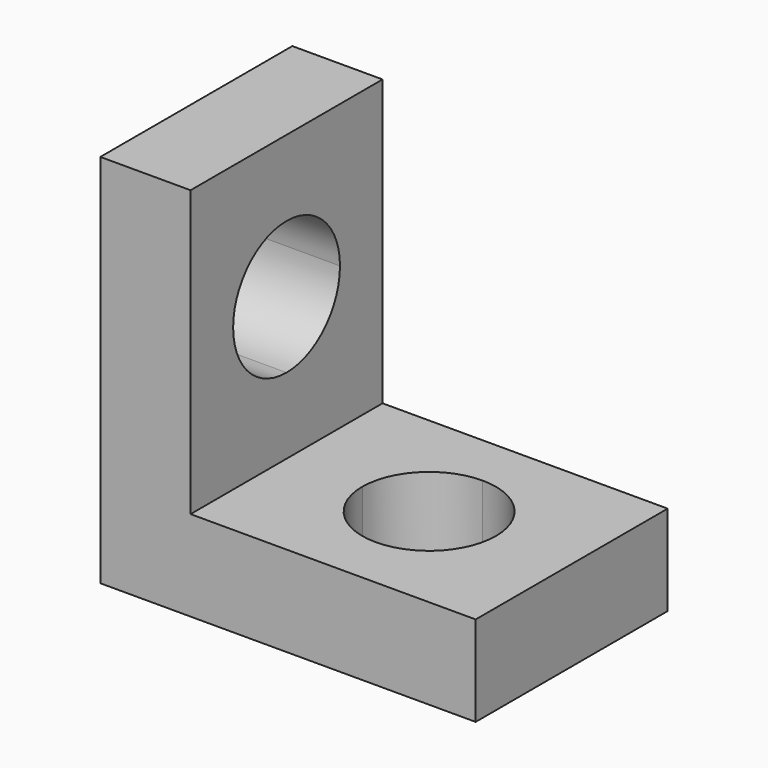
from build123d import *

# Parameters (mm, degrees)
F1_DEPTH = 16.891
F3_DEPTH = 6.35
F5_DEPTH = 6.35


with BuildPart() as f1:
    # F0 (on Front) → F1 (new body)
    with BuildSketch(Plane.XZ):
        Polygon((0, 6.35), (0, 0), (6.35, 0), (26.416, 0), (26.416, 6.35), (6.35, 6.35), (6.35, 26.416), (0, 26.416), align=None)
    extrude(amount=F1_DEPTH)

    # F2 (on face) → F3 (cut, through all)
    with BuildSketch(Plane.YZ.offset(6.35)):
        with BuildLine():
            Line((-8.4455, 16.383), (-3.7465, 16.383))
            ThreePointArc((-3.7465, 16.383), (-5.122805, 19.705695), (-8.4455, 21.082))
            Line((-8.4455, 21.082), (-8.4455, 16.383))
        make_face()
        with BuildLine():
            ThreePointArc((-8.4455, 11.684), (-5.122805, 13.060305), (-3.7465, 16.383))
            Line((-3.7465, 16.383), (-8.4455, 16.383))
            Line((-8.4455, 16.383), (-8.4455, 11.684))
        make_face()
        with BuildLine():
            Line((-8.4455, 16.383), (-8.4455, 21.082))
            ThreePointArc((-8.4455, 21.082), (-11.768195, 19.705695), (-13.1445, 16.383))
            Line((-13.1445, 16.383), (-8.4455, 16.383))
        make_face()
        with BuildLine():
            ThreePointArc((-13.1445, 16.383), (-11.768195, 13.060305), (-8.4455, 11.684))
            Line((-8.4455, 11.684), (-8.4455, 16.383))
            Line((-8.4455, 16.383), (-13.1445, 16.383))
        make_face()
    extrude(amount=-F3_DEPTH, mode=Mode.SUBTRACT)

    # F4 (on face) → F5 (cut, through all)
    with BuildSketch(Plane.XY.offset(6.35)):
        with BuildLine():
            Line((16.383, -8.4455), (21.082, -8.4455))
            ThreePointArc((21.082, -8.4455), (19.705695, -5.122805), (16.383, -3.7465))
            Line((16.383, -3.7465), (16.383, -8.4455))
        make_face()
        with BuildLine():
            ThreePointArc((16.383, -13.1445), (19.705695, -11.768195), (21.082, -8.4455))
            Line((21.082, -8.4455), (16.383, -8.4455))
            Line((16.383, -8.4455), (16.383, -13.1445))
        make_face()
        with BuildLine():
            Line((16.383, -8.4455), (16.383, -3.7465))
            ThreePointArc((16.383, -3.7465), (13.060305, -5.122805), (11.684, -8.4455))
            Line((11.684, -8.4455), (16.383, -8.4455))
        make_face()
        with BuildLine():
            ThreePointArc((11.684, -8.4455), (13.060305, -11.768195), (16.383, -13.1445))
            Line((16.383, -13.1445), (16.383, -8.4455))
            Line((16.383, -8.4455), (11.684, -8.4455))
        make_face()
    extrude(amount=-F5_DEPTH, mode=Mode.SUBTRACT)


solid = f1.part
